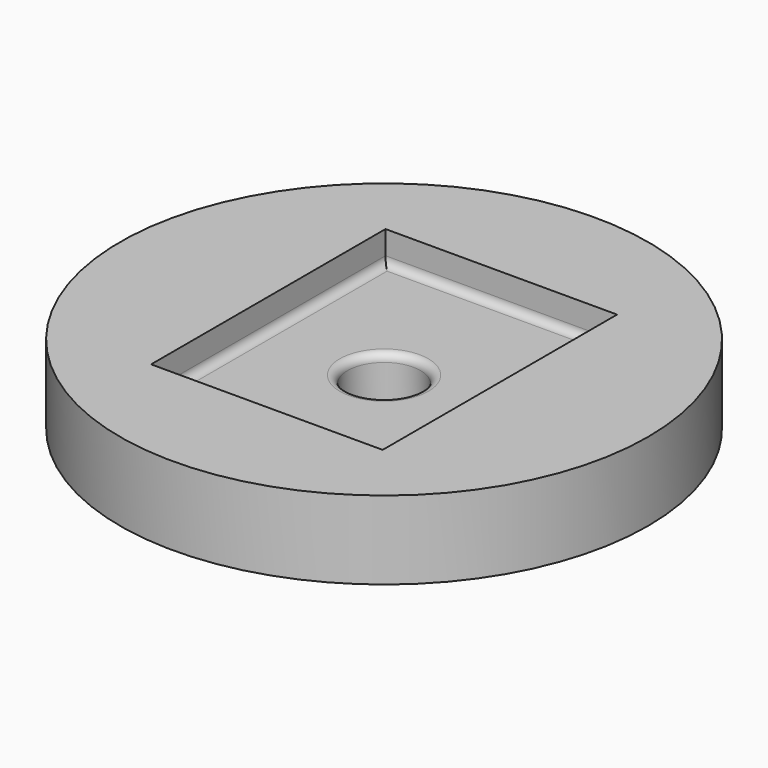
from build123d import *

# Parameters (mm, degrees)
F0_R     = 42.7770323115
F1_DEPTH = 12.7
F2_W     = 37.5254675746
F2_H     = 47.488167882
F3_DEPTH = 5.08
F4_R     = 5.9019782965
F5_DEPTH = 25.4
F6_R     = 1.27


with BuildPart() as f1:
    # F0 (on Top) → F1 (new body)
    with BuildSketch(Plane.XY):
        Circle(F0_R)
    extrude(amount=F1_DEPTH)

    # F2 (on face) → F3 (cut)
    with BuildSketch(Plane.XY.offset(12.7)):
        Rectangle(F2_W, F2_H)
    extrude(amount=-F3_DEPTH, mode=Mode.SUBTRACT)

    # F4 (on face) → F5 (cut)
    with BuildSketch(Plane.XY.offset(7.62)):
        Circle(F4_R)
    extrude(amount=-F5_DEPTH, mode=Mode.SUBTRACT)

    # F6
    f6_edges = [f1.edges().sort_by_distance(p)[0] for p in [
        (0, 23.744084, 7.62),
        (18.762734, 0, 7.62),
        (0, -23.744084, 7.62),
        (-18.762734, 0, 7.62),
        (-5.901978, 0, 7.62),
    ]]
    fillet(f6_edges, radius=F6_R)


solid = f1.part
